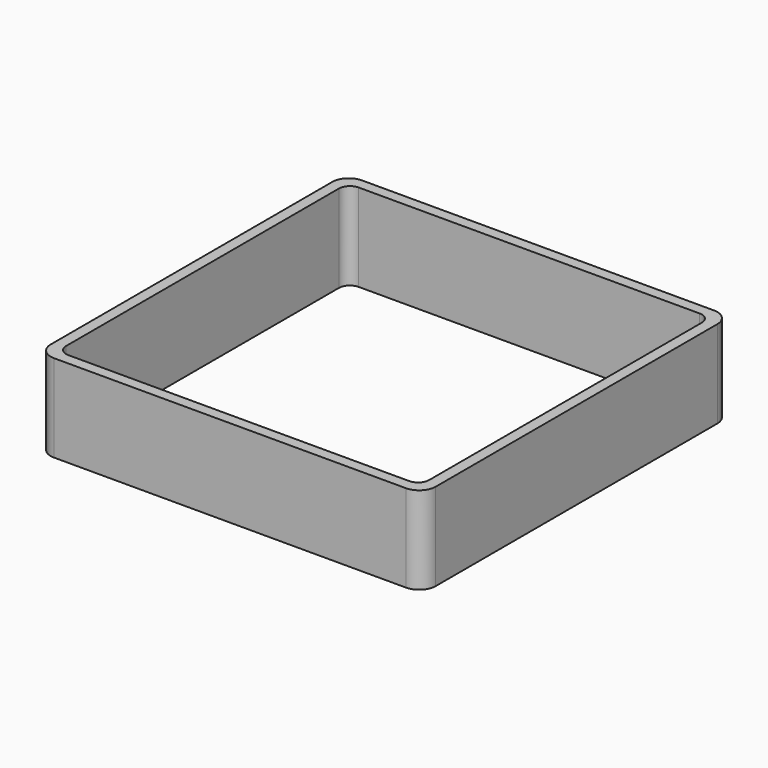
from build123d import *

# Parameters (mm, degrees)
EXTRUDE_DEPTH = 50


with BuildPart() as part:
    # Sketch → Extrude (new body)
    with BuildSketch(Plane.XY):
        with BuildLine():
            Line((-100.55, 110), (100.55, 110))
            ThreePointArc((110, 100.55), (107.232159, 107.232159), (100.55, 110))
            Line((110, 100.55), (110, -100.55))
            ThreePointArc((100.55, -110), (107.232159, -107.232159), (110, -100.55))
            Line((100.55, -110), (-100.55, -110))
            ThreePointArc((-110, -100.55), (-107.232159, -107.232159), (-100.55, -110))
            Line((-110, -100.55), (-110, 100.55))
            ThreePointArc((-100.55, 110), (-107.232159, 107.232159), (-110, 100.55))
        make_face()
        with BuildLine():
            Line((-97.4, 103.7), (97.4, 103.7))
            ThreePointArc((103.7, 97.4), (101.854773, 101.854773), (97.4, 103.7))
            Line((103.7, 97.4), (103.7, -97.4))
            ThreePointArc((97.4, -103.7), (101.854773, -101.854773), (103.7, -97.4))
            Line((97.4, -103.7), (-97.4, -103.7))
            ThreePointArc((-103.7, -97.4), (-101.854773, -101.854773), (-97.4, -103.7))
            Line((-103.7, -97.4), (-103.7, 97.4))
            ThreePointArc((-97.4, 103.7), (-101.854773, 101.854773), (-103.7, 97.4))
        make_face(mode=Mode.SUBTRACT)
    extrude(amount=EXTRUDE_DEPTH)


solid = part.part
